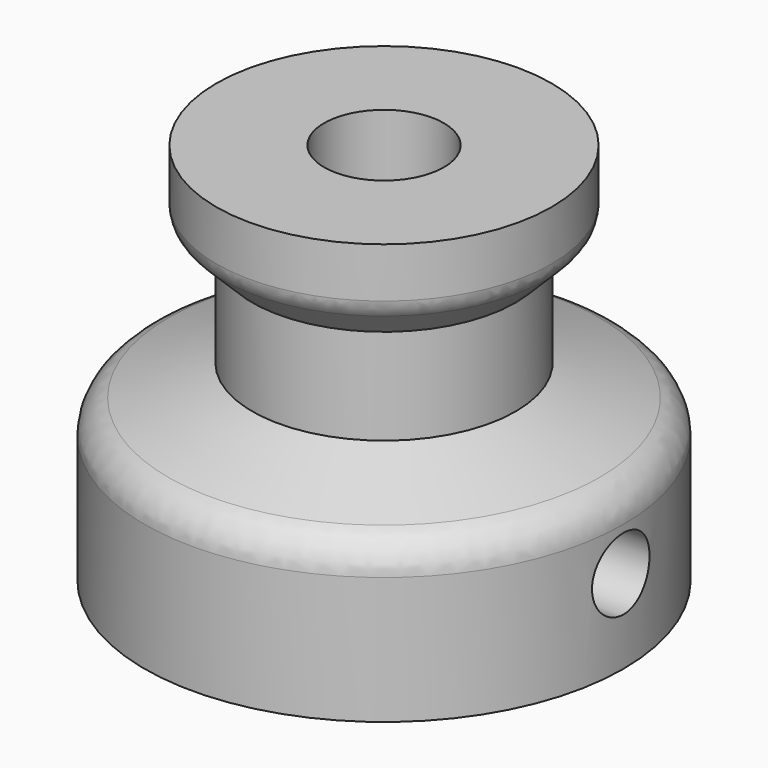
from build123d import *

# Parameters (mm, degrees)
CYLINDER002_R           = 1.5
CYLINDER002_DEPTH       = 20
CYLINDER002_PITCH_ANGLE = 90
CYLINDER001_R           = 2.5
CYLINDER001_DEPTH       = 30
BOX_W                   = 2.4
BOX_H                   = 5.5
BOX_DEPTH               = 20
FILLET_1_R              = 1.5
FILLET_2_R              = 1


with BuildPart() as clone_of_bolt:
    # Cylinder002 → Cylinder002 (new body)
    with BuildSketch(Plane.XY):
        Circle(CYLINDER002_R)
    extrude(amount=CYLINDER002_DEPTH)


with BuildPart() as clone_of_bolt_1:
    # Cylinder002 pitch: moved
    add(clone_of_bolt.part.rotate(Axis((0, 0, 0), (0, 1, 0)), CYLINDER002_PITCH_ANGLE))


with BuildPart() as clone_of_bolt_2:
    # Cylinder002 placement: moved
    add(clone_of_bolt_1.part.moved(Location((0, 0, 3.5))))


with BuildPart() as clone_of_nemashaft:
    # Cylinder001 → Cylinder001 (new body)
    with BuildSketch(Plane.XY.offset(-8)):
        Circle(CYLINDER001_R)
    extrude(amount=CYLINDER001_DEPTH)


with BuildPart() as innercavity:
    # Box → Box (new body)
    with BuildSketch(Plane(origin=(4, -2.75, -13), x_dir=(1, 0, 0), z_dir=(0, 0, 1))):
        with Locations((1.2, 2.75)):
            Rectangle(BOX_W, BOX_H)
    extrude(amount=BOX_DEPTH)

    # Fusion: union Clone of Bolt, Clone of NEMAShaft
    add(clone_of_bolt_2.part)
    add(clone_of_nemashaft.part)


with BuildPart() as innercavitycut:
    # Sketch001 → Revolution (revolve)
    with BuildSketch(Plane.XZ):
        Polygon((0, 16), (7, 16), (7, 13.5), (5.5, 12), (5.5, 8), (10, 6.362134), (10, 0), (0, 0), align=None)
    revolve(axis=Axis((0, 0, 0), (0, 0, 1)))

    # Fillet 1
    fillet_1_edges = [innercavitycut.edges().sort_by_distance(p)[0] for p in [
        (-10, 0, 6.362134),
    ]]
    fillet(fillet_1_edges, radius=FILLET_1_R)

    # Fillet 2
    fillet_2_edges = [innercavitycut.edges().sort_by_distance(p)[0] for p in [
        (-7, 0, 13.5),
    ]]
    fillet(fillet_2_edges, radius=FILLET_2_R)

    # Cut: cut InnerCavity
    add(innercavity.part, mode=Mode.SUBTRACT)


solid = innercavitycut.part
